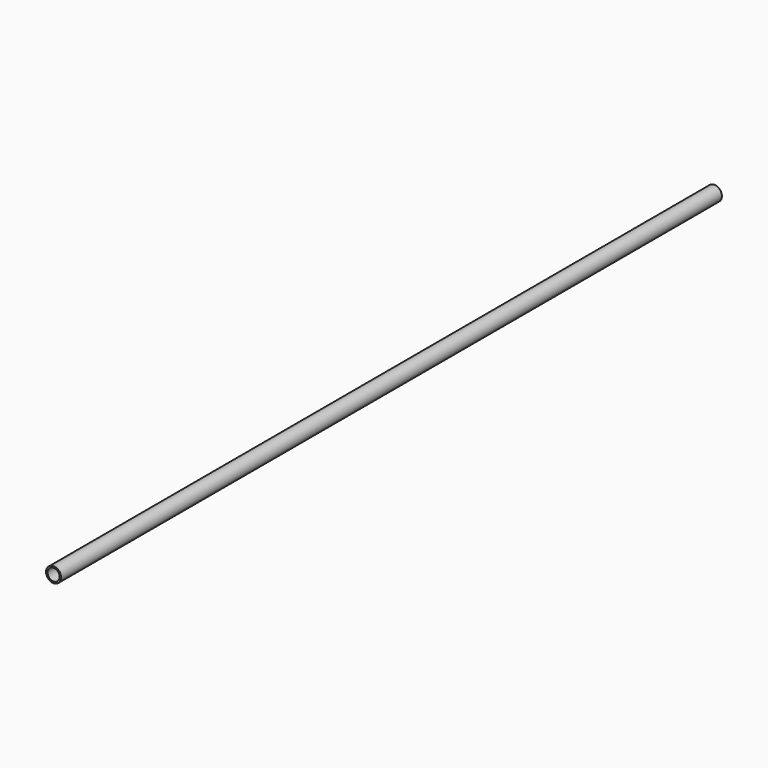
from build123d import *

# Parameters (mm, degrees)
SKETCH_R   = 5
SKETCH_R_2 = 4
PAD_DEPTH  = 550


with BuildPart() as part:
    # Sketch → Pad (new body)
    with BuildSketch(Plane.XZ):
        Circle(SKETCH_R)
        Circle(SKETCH_R_2, mode=Mode.SUBTRACT)
    extrude(amount=PAD_DEPTH)


solid = part.part
